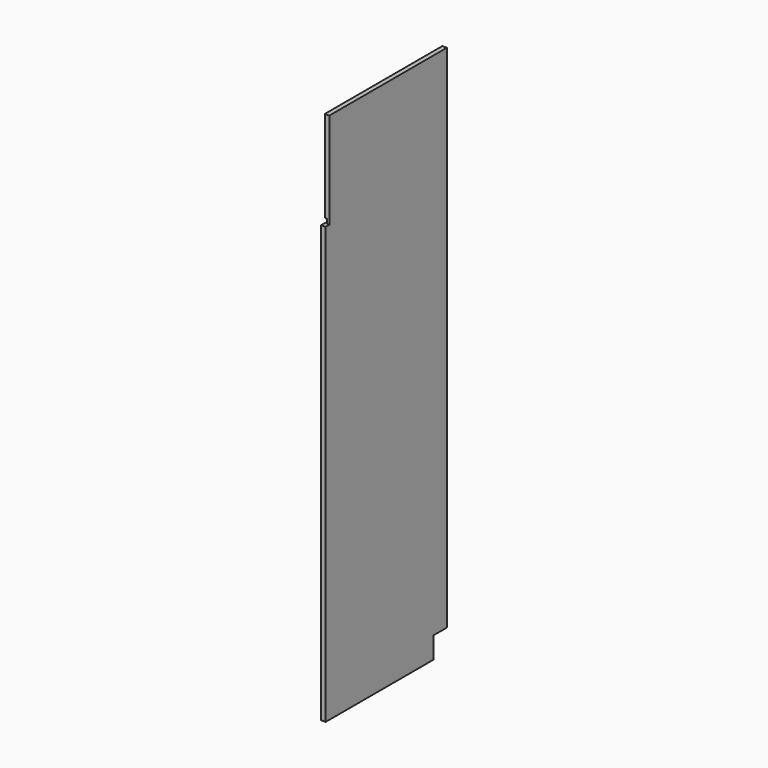
from build123d import *

# Parameters (mm, degrees)
F0_W     = 635
F0_H     = 2231
F1_DEPTH = 19
F2_W     = 9
F2_H     = 19
F3_DEPTH = 635.001
F4_W     = 70
F4_H     = 90
F5_DEPTH = 19.001
F6_W     = 19
F6_H     = 403
F7_DEPTH = 19.001


with BuildPart() as f1:
    # F0 (on Right) → F1 (new body)
    with BuildSketch(Plane.YZ):
        with Locations((317.5, 1115.5)):
            Rectangle(F0_W, F0_H)
    extrude(amount=F1_DEPTH)

    # F2 (on Front) → F3 (cut, through all)
    with BuildSketch(Plane.XZ):
        with Locations((4.5, 1837.5)):
            Rectangle(F2_W, F2_H)
    extrude(amount=-F3_DEPTH, mode=Mode.SUBTRACT)

    # F4 (on Right) → F5 (cut, through all)
    with BuildSketch(Plane.YZ):
        with Locations((600, 45)):
            Rectangle(F4_W, F4_H)
    extrude(amount=F5_DEPTH, mode=Mode.SUBTRACT)

    # F6 (on Right) → F7 (cut, through all)
    with BuildSketch(Plane.YZ):
        with Locations((9.5, 2029.5)):
            Rectangle(F6_W, F6_H)
    extrude(amount=F7_DEPTH, mode=Mode.SUBTRACT)


solid = f1.part
